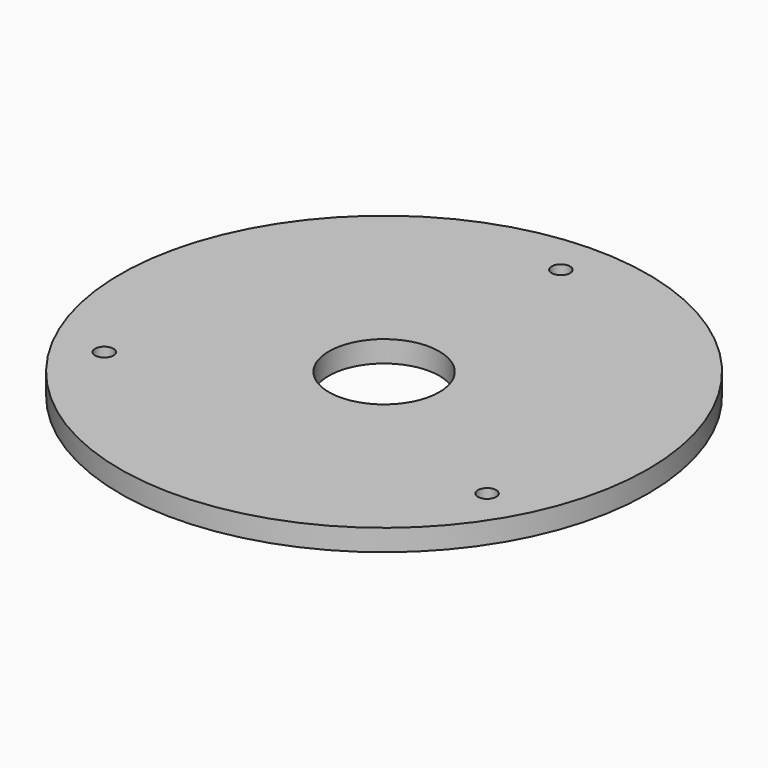
from build123d import *

# Parameters (mm, degrees)
SKETCH006_R   = 43
SKETCH006_R_2 = 1.5
SKETCH006_R_3 = 9
PAD_DEPTH     = 3.5
CHAMFER_SIZE  = 1.4


with BuildPart() as part:
    # Sketch006 → Pad (new body)
    with BuildSketch(Plane.XY.offset(22)):
        Circle(SKETCH006_R)
        with Locations((0, 36)):
            Circle(SKETCH006_R_2, mode=Mode.SUBTRACT)
        with Locations((31.176915, -18)):
            Circle(SKETCH006_R_2, mode=Mode.SUBTRACT)
        with Locations((-31.176915, -18)):
            Circle(SKETCH006_R_2, mode=Mode.SUBTRACT)
        Circle(SKETCH006_R_3, mode=Mode.SUBTRACT)
    extrude(amount=PAD_DEPTH)

    # Chamfer
    chamfer_edges = [part.edges().sort_by_distance(p)[0] for p in [
        (-32.676915, -18, 22),
        (-1.5, 36, 22),
        (29.676915, -18, 22),
    ]]
    chamfer(chamfer_edges, length=CHAMFER_SIZE)


solid = part.part
